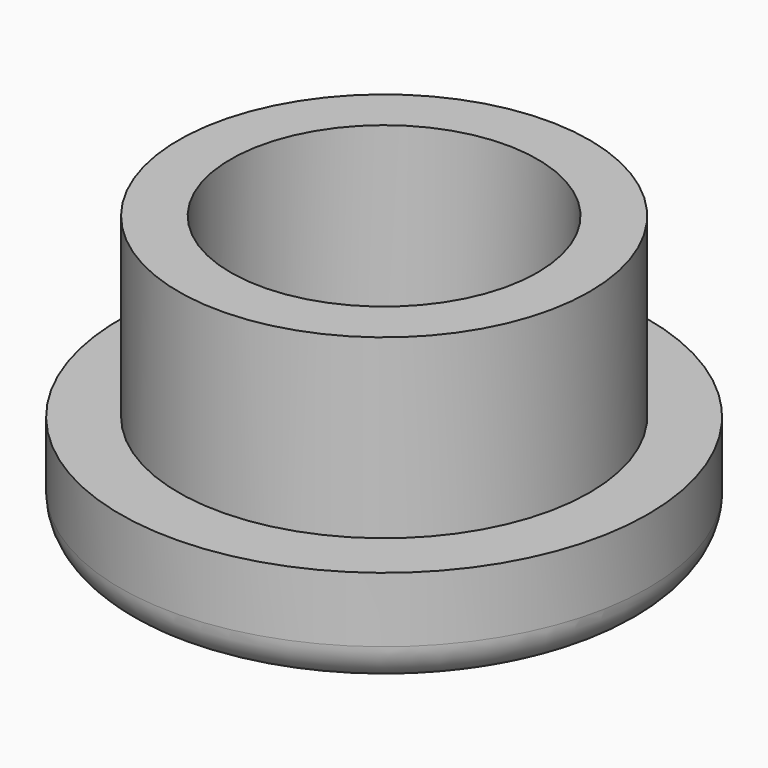
from build123d import *

# Parameters (mm, degrees)
F0_R     = 3.95
F0_R_2   = 2.95
F1_DEPTH = 5.4
F0_R_3   = 5.075
F2_DEPTH = 2
F3_R     = 0.75


with BuildPart() as f1:
    # F0 (on Top) → F1 (new body)
    with BuildSketch(Plane.XY):
        Circle(F0_R)
        Circle(F0_R_2, mode=Mode.SUBTRACT)
    extrude(amount=F1_DEPTH)

    # F0 (on Top) → F2 (join)
    with BuildSketch(Plane.XY):
        Circle(F0_R_3)
        Circle(F0_R, mode=Mode.SUBTRACT)
    extrude(amount=F2_DEPTH)

    # F3
    f3_edges = [f1.edges().sort_by_distance(p)[0] for p in [
        (-5.075, 0, 0),
        (-2.95, 0, 0),
    ]]
    fillet(f3_edges, radius=F3_R)


solid = f1.part
